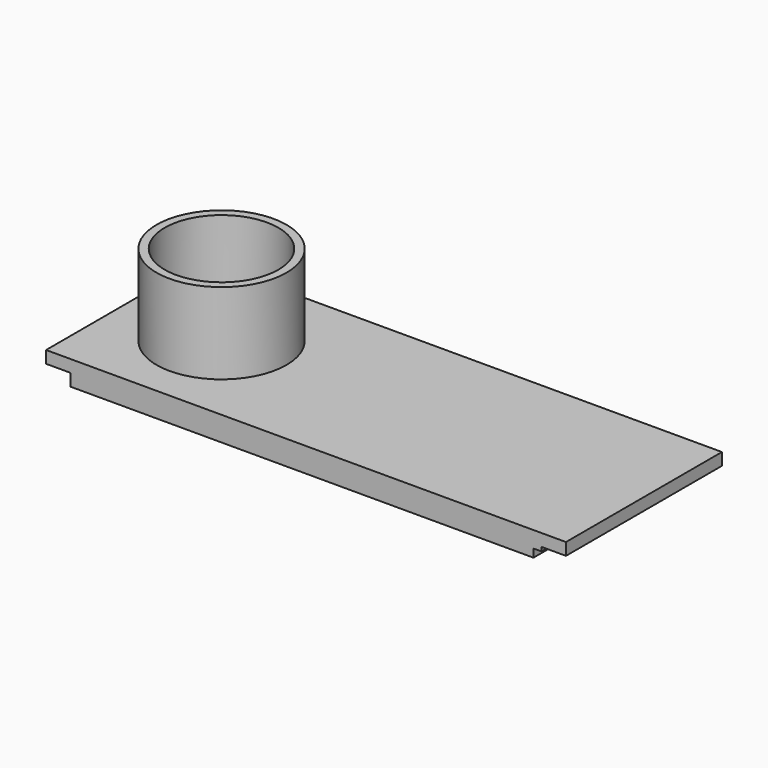
from build123d import *

# Parameters (mm, degrees)
F0_W     = 406.4
F0_H     = 152.4
F1_DEPTH = 19.05
F2_W     = 6.35
F2_H     = 6.35
F3_DEPTH = 152.401
F4_R     = 44.45
F5_DEPTH = 19.051
F6_R     = 50.8
F6_R_2   = 44.45
F7_DEPTH = 63.5


with BuildPart() as f1:
    # F0 (on Top) → F1 (new body)
    with BuildSketch(Plane.XY):
        Rectangle(F0_W, F0_H)
    extrude(amount=F1_DEPTH)

    # F2 (on face) → F3 (cut, through all)
    with BuildSketch(Plane.XZ.offset(76.2)):
        Polygon((-203.2, 9.525), (-203.2, 0), (-184.15, 0), (-184.15, 6.35), (-184.15, 9.525), align=None)
        Polygon((184.15, 6.35), (184.15, 0), (203.2, 0), (203.2, 9.525), (184.15, 9.525), align=None)
        with Locations((180.975, 3.175)):
            Rectangle(F2_W, F2_H)
    extrude(amount=-F3_DEPTH, mode=Mode.SUBTRACT)

    # F4 (on face) → F5 (cut, through all)
    with BuildSketch(Plane(origin=(0, 0, 0), x_dir=(1, 0, 0), z_dir=(0, 0, -1))):
        with Locations((-127, 0)):
            Circle(F4_R)
    extrude(amount=-F5_DEPTH, mode=Mode.SUBTRACT)

    # F6 (on face) → F7 (join)
    with BuildSketch(Plane.XY.offset(19.05)):
        with Locations((-127, 0)):
            Circle(F6_R)
        with Locations((-127, 0)):
            Circle(F6_R_2, mode=Mode.SUBTRACT)
    extrude(amount=F7_DEPTH)


solid = f1.part
